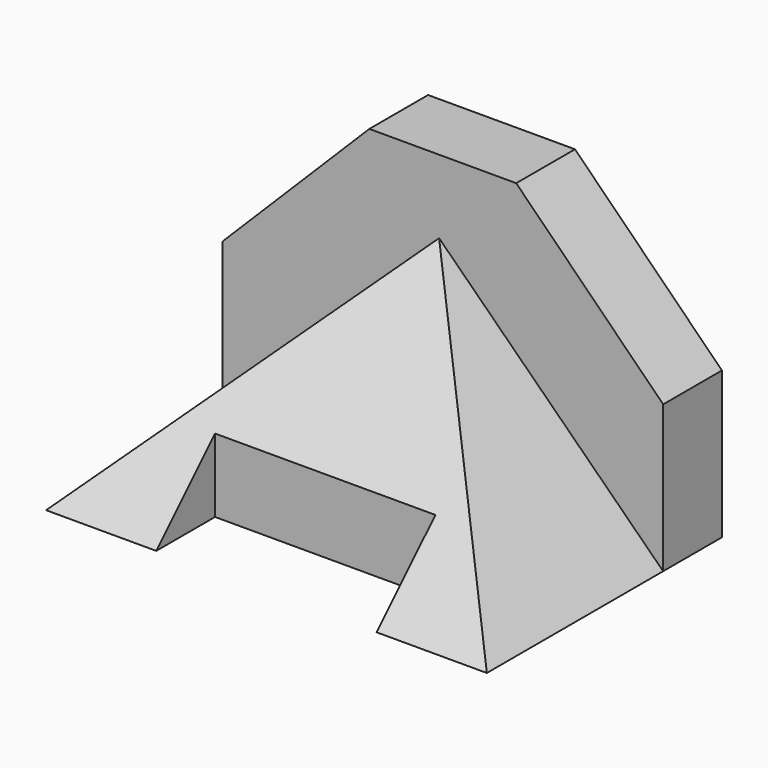
from build123d import *

# Parameters (mm, degrees)
F0_W     = 76.2
F0_H     = 50.8
F1_DEPTH = 50.8
F3_DEPTH = 50.801
F4_W     = 38.1
F4_H     = 12.7
F5_DEPTH = 50.801
F7_DEPTH = 38.1
F9_DEPTH = 76.201


with BuildPart() as f1:
    # F0 (on Front) → F1 (new body)
    with BuildSketch(Plane.XZ):
        with Locations((38.1, 25.4)):
            Rectangle(F0_W, F0_H)
    extrude(amount=F1_DEPTH)

    # F2 (on face) → F3 (cut, through all)
    with BuildSketch(Plane.XZ.offset(50.8)):
        Polygon((0, 50.8), (0, 25.4), (25.4, 50.8), align=None)
        Polygon((76.2, 25.4), (76.2, 50.8), (50.8, 50.8), align=None)
    extrude(amount=-F3_DEPTH, mode=Mode.SUBTRACT)

    # F4 (on face) → F5 (cut, through all)
    with BuildSketch(Plane(origin=(0, 0, 0), x_dir=(1, 0, 0), z_dir=(0, 0, -1))):
        with Locations((38.1, 44.45)):
            Rectangle(F4_W, F4_H)
    extrude(amount=-F5_DEPTH, mode=Mode.SUBTRACT)

    # F6 (on face) → F7 (cut)
    with BuildSketch(Plane.XZ.offset(50.8)):
        Polygon((76.2, 25.4), (57.15, 44.45), (50.8, 50.8), (25.4, 50.8), (19.05, 44.45), (0, 25.4), (0, 0), (37.4645553529, 38.1), (76.2, 0), align=None)
    extrude(amount=-F7_DEPTH, mode=Mode.SUBTRACT)

    # F8 (on face) → F9 (cut, through all)
    with BuildSketch(Plane.YZ.offset(76.2)):
        Polygon((-50.8, 0), (-12.7, 38.1), (-38.1, 38.1), (-50.8, 28.336815536), align=None)
    extrude(amount=-F9_DEPTH, mode=Mode.SUBTRACT)


solid = f1.part
